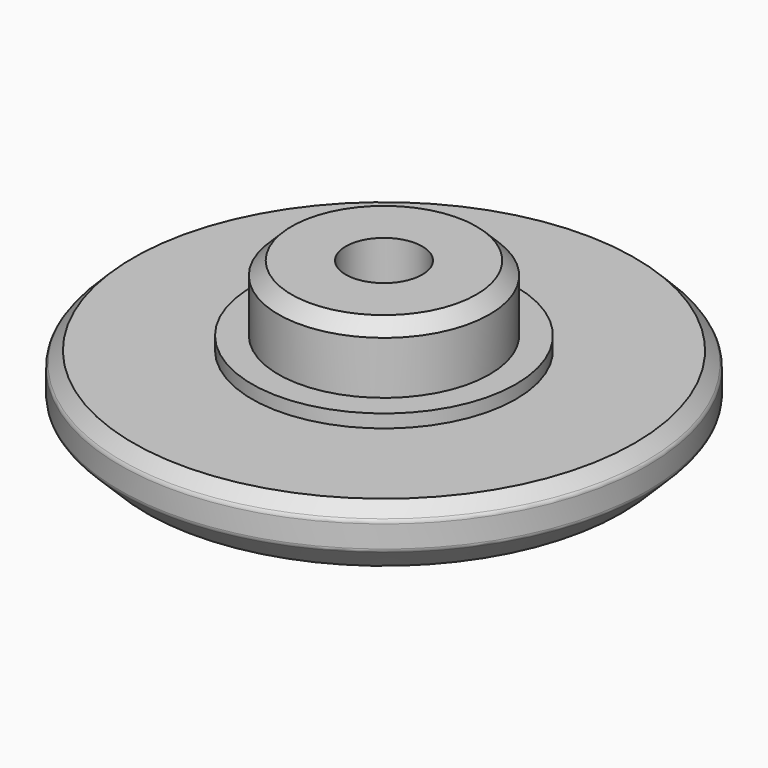
from build123d import *

# Parameters (mm, degrees)
F0_R      = 4
F1_DEPTH  = 5.5
F2_R      = 5
F3_DEPTH  = 3
F4_R      = 10
F5_DEPTH  = 2.5
F6_SIZE   = 1
F7_SIZE   = 0.5
F8_R      = 0.2
F9_SIZE   = 0.5
F12_START = 1.5
F11_R     = 1.45
F12_DEPTH = 10.1


with BuildPart() as f1:
    # F0 (on Top) → F1 (new body)
    with BuildSketch(Plane.XY):
        Circle(F0_R)
    extrude(amount=F1_DEPTH)

    # F2 (on Top) → F3 (join)
    with BuildSketch(Plane.XY):
        Circle(F2_R)
    extrude(amount=F3_DEPTH)

    # F4 (on Top) → F5 (join)
    with BuildSketch(Plane.XY):
        Circle(F4_R)
    extrude(amount=F5_DEPTH)

    # F6
    f6_edges = [f1.edges().sort_by_distance(p)[0] for p in [
        (-10, 0, 0),
    ]]
    chamfer(f6_edges, length=F6_SIZE)

    # F7
    f7_edges = [f1.edges().sort_by_distance(p)[0] for p in [
        (-10, 0, 2.5),
    ]]
    chamfer(f7_edges, length=F7_SIZE)

    # F8
    f8_edges = [f1.edges().sort_by_distance(p)[0] for p in [
        (-10, 0, 1),
        (-10, 0, 2),
    ]]
    fillet(f8_edges, radius=F8_R)

    # F9
    f9_edges = [f1.edges().sort_by_distance(p)[0] for p in [
        (-4, 0, 5.5),
    ]]
    chamfer(f9_edges, length=F9_SIZE)


with BuildPart() as f10_1:
    # F10: copy of F1
    add(f1.part.moved(Location((-25, 0, 0))))


with BuildPart() as f1_1:
    add(f1.part)

    # F11 (on Top) → F12 (cut)
    with BuildSketch(Plane.XY.offset(F12_START)):
        Circle(F11_R)
    extrude(amount=F12_DEPTH, mode=Mode.SUBTRACT)


with BuildPart() as f14_1:
    # F14: copy of F1
    add(f1_1.part.moved(Location((-23.4, 0, 0))))


solid = f1_1.part
